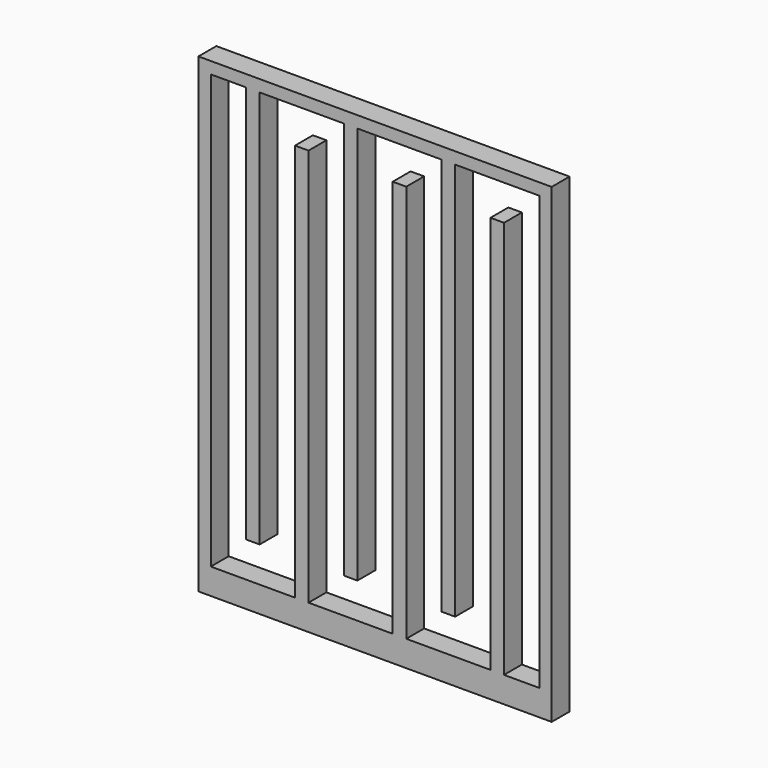
from build123d import *

# Parameters (mm, degrees)
F0_W     = 300
F0_H     = 400
F1_DEPTH = 19
F3_DEPTH = 19


with BuildPart() as f1:
    # F0 (on Front) → F1 (new body)
    with BuildSketch(Plane.XZ):
        with Locations((-34.205507, 1.972216)):
            Rectangle(F0_W, F0_H)
    extrude(amount=F1_DEPTH)

    # F2 (on face) → F3 (cut)
    with BuildSketch(Plane(origin=(0, 0, 0), x_dir=(-1, 0, 0), z_dir=(0, 1, 0))):
        Polygon((-105.294493, 191.972216), (-105.294493, -176.027784), (-75.294493, -176.027784), (-75.294493, 161.972216), (-63.794493, 161.972216), (-63.794493, -176.027784), (7.705507, -176.027784), (7.705507, 161.972216), (19.205507, 161.972216), (19.205507, -176.027784), (90.705507, -176.027784), (90.705507, 161.972216), (102.205507, 161.972216), (102.205507, -176.027784), (173.705507, -176.027784), (173.705507, 191.972216), (143.705507, 191.972216), (143.705507, -146.027784), (132.205507, -146.027784), (132.205507, 191.972216), (60.705507, 191.972216), (60.705507, -146.027784), (49.205507, -146.027784), (49.205507, 191.972216), (-22.294493, 191.972216), (-22.294493, -146.027784), (-33.794493, -146.027784), (-33.794493, 191.972216), align=None)
    extrude(amount=-F3_DEPTH, mode=Mode.SUBTRACT)


solid = f1.part
